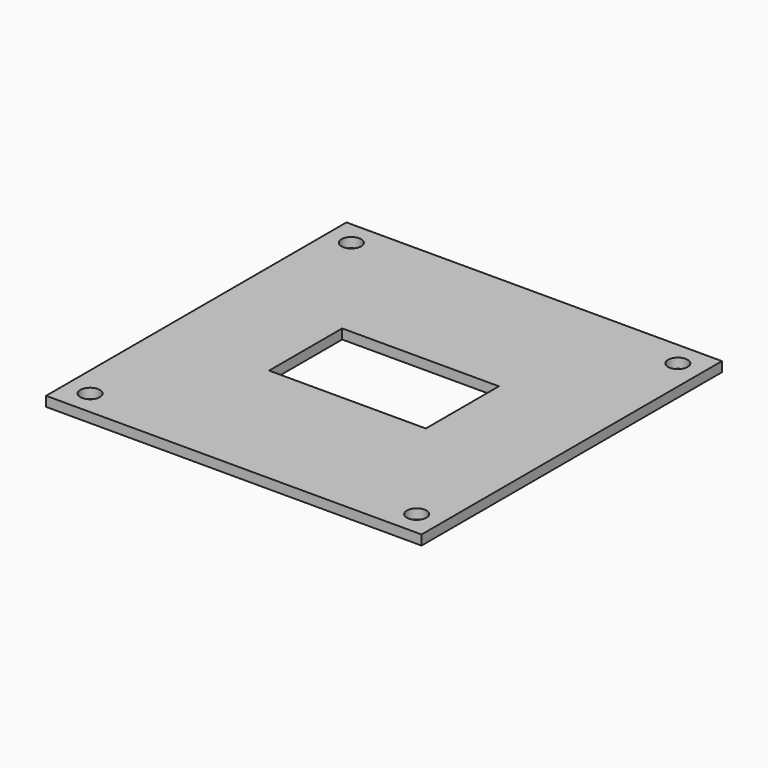
from build123d import *

# Parameters (mm, degrees)
SKETCH_W        = 115
SKETCH_H        = 115
PAD_DEPTH       = 3
SKETCH001_W     = 48
SKETCH001_H     = 28
POCKET_DEPTH    = 5
SKETCH003_R     = 3
POCKET001_DEPTH = 5


with BuildPart() as part:
    # Sketch → Pad (new body)
    with BuildSketch(Plane.XY):
        Rectangle(SKETCH_W, SKETCH_H)
    extrude(amount=PAD_DEPTH)

    # Sketch001 (on Face6 of Pad) → Pocket (cut)
    with BuildSketch(Plane.XY.offset(3)):
        Rectangle(SKETCH001_W, SKETCH001_H)
    extrude(amount=-POCKET_DEPTH, mode=Mode.SUBTRACT)

    # Sketch003 (on Face5 of Pocket) → Pocket001 (cut)
    with BuildSketch(Plane.XY.offset(3)):
        with Locations((50, -50)):
            Circle(SKETCH003_R)
        with Locations((-50, -50)):
            Circle(SKETCH003_R)
        with Locations((-50, 50)):
            Circle(SKETCH003_R)
        with Locations((50, 50)):
            Circle(SKETCH003_R)
    extrude(amount=-POCKET001_DEPTH, mode=Mode.SUBTRACT)


solid = part.part
